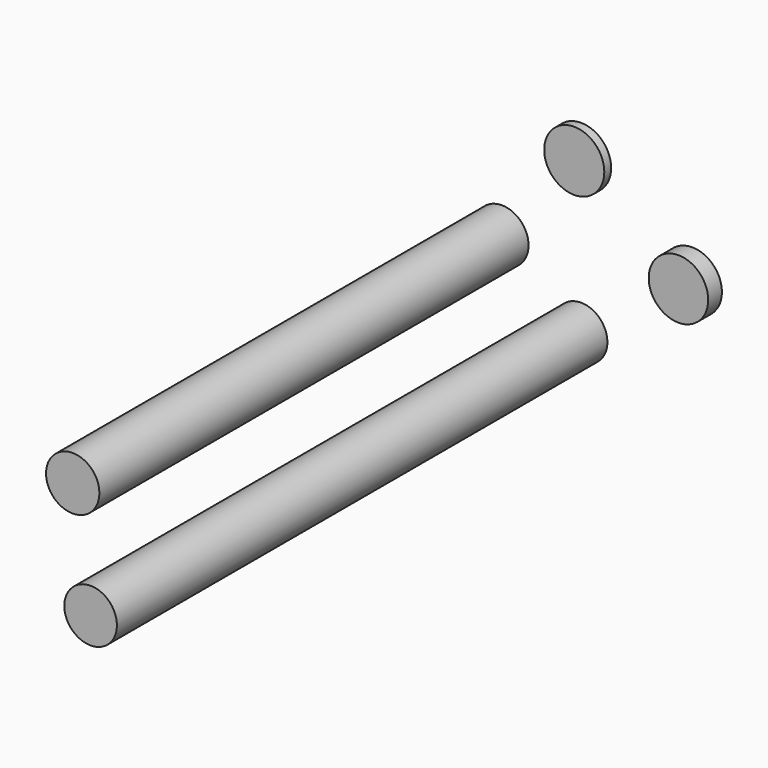
from build123d import *

# Parameters (mm, degrees)
F0_R     = 10.89025
F1_DEPTH = 254
F2_R     = 11.049
F3_DEPTH = 222.25
F4_R     = 12.319
F5_DEPTH = 7.112
F6_R     = 12.446
F7_DEPTH = 3.556


with BuildPart() as f1:
    # F0 (on Front) → F1 (new body)
    with BuildSketch(Plane.XZ):
        Circle(F0_R)
    extrude(amount=F1_DEPTH)


with BuildPart() as f3:
    # F2 (on Front) → F3 (new body)
    with BuildSketch(Plane.XZ):
        with Locations((-32.816604, 24.690587)):
            Circle(F2_R)
    extrude(amount=F3_DEPTH)


with BuildPart() as f5:
    # F4 (on Front) → F5 (new body)
    with BuildSketch(Plane.XZ):
        with Locations((46.012603, 33.735577)):
            Circle(F4_R)
    extrude(amount=F5_DEPTH)


with BuildPart() as f7:
    # F6 (on Front) → F7 (new body)
    with BuildSketch(Plane.XZ):
        with Locations((0, 64.04026)):
            Circle(F6_R)
    extrude(amount=F7_DEPTH)


solid = Compound([f1.part, f3.part, f5.part, f7.part])
